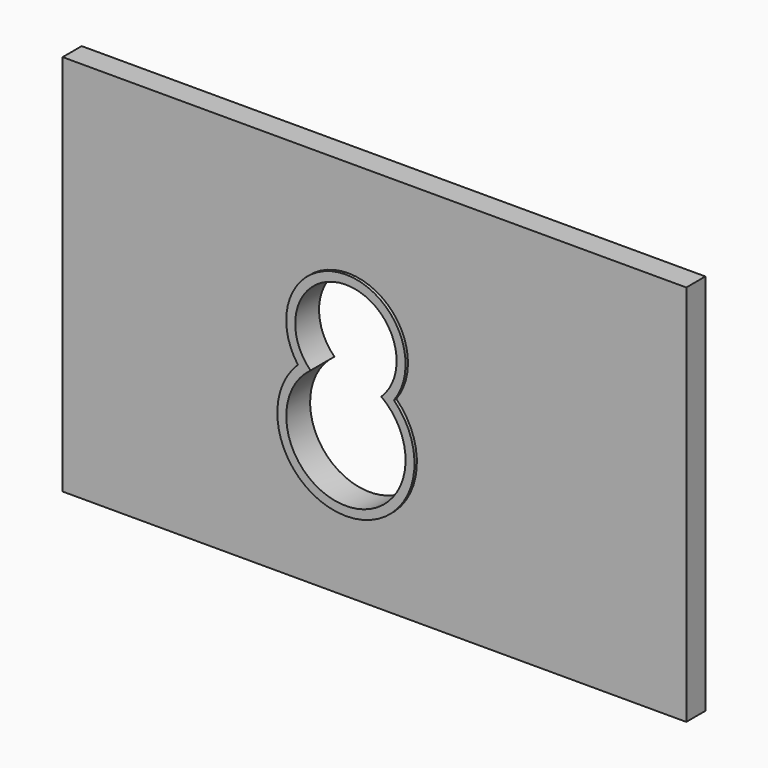
from build123d import *

# Parameters (mm, degrees)
F1_DEPTH = 6.35
F0_W     = 265.508406
F0_H     = 162.831157
F2_DEPTH = 5.08


with BuildPart() as f1:
    # F0 (on Front) → F1 (new body, symmetric)
    with BuildSketch(Plane.XZ):
        with BuildLine():
            ThreePointArc((-20.447047, -1.391527), (0, -51.461593), (20.447047, -1.391527))
            ThreePointArc((20.447047, -1.391527), (0, 39.077588), (-20.447047, -1.391527))
        make_face()
        with BuildLine():
            ThreePointArc((15.056898, -1.795547), (0, -47.651593), (-15.056898, -1.795547))
            ThreePointArc((-15.056898, -1.795547), (0, 35.267588), (15.056898, -1.795547))
        make_face(mode=Mode.SUBTRACT)
    extrude(amount=F1_DEPTH, both=True)

    # F0 (on Front) → F2 (join, symmetric)
    with BuildSketch(Plane.XZ):
        with Locations((11.139218, -0.917264)):
            Rectangle(F0_W, F0_H)
        with BuildLine():
            ThreePointArc((-20.447047, -1.391527), (0, 39.077588), (20.447047, -1.391527))
            ThreePointArc((20.447047, -1.391527), (0, -51.461593), (-20.447047, -1.391527))
        make_face(mode=Mode.SUBTRACT)
    extrude(amount=F2_DEPTH, both=True)


solid = f1.part
